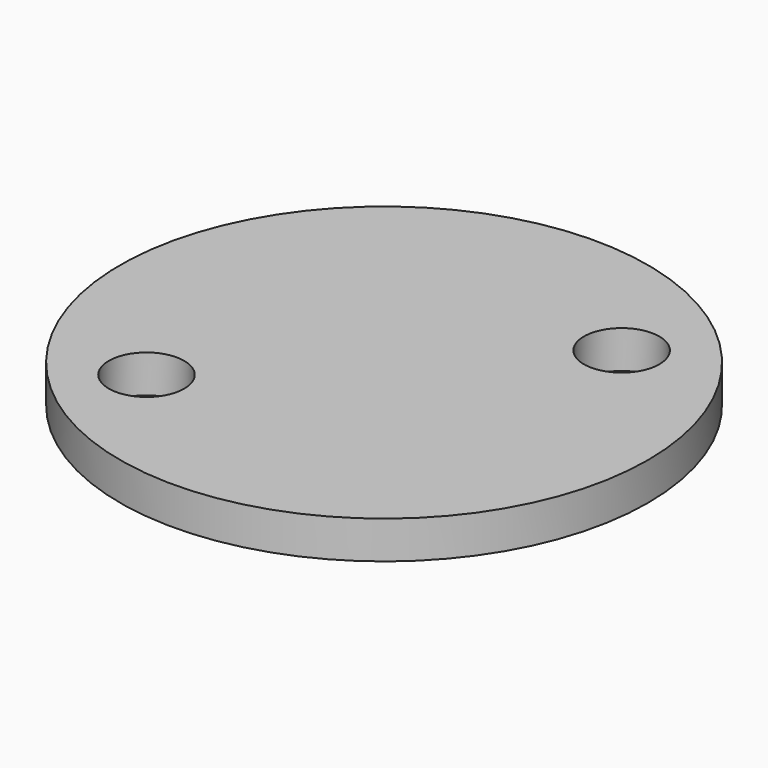
from build123d import *

# Parameters (mm, degrees)
CYLINDER064_R     = 1
CYLINDER064_DEPTH = 20
CYLINDER065_R     = 1
CYLINDER065_DEPTH = 20
CYLINDER066_R     = 7
CYLINDER066_DEPTH = 1


with BuildPart() as obj1:
    # Cylinder064 → Cylinder064 (new body)
    with BuildSketch(Plane(origin=(-3.5, -3.5, 0), x_dir=(1, 0, 0), z_dir=(0, 0, 1))):
        Circle(CYLINDER064_R)
    extrude(amount=CYLINDER064_DEPTH)


with BuildPart() as compound035:
    # Cylinder065 → Cylinder065 (new body)
    with BuildSketch(Plane(origin=(3.5, 3.5, 0), x_dir=(1, 0, 0), z_dir=(0, 0, 1))):
        Circle(CYLINDER065_R)
    extrude(amount=CYLINDER065_DEPTH)

    # Compound035: union obj1
    add(obj1.part)


with BuildPart() as cut035:
    # Cylinder066 → Cylinder066 (new body)
    with BuildSketch(Plane.XY.offset(10)):
        Circle(CYLINDER066_R)
    extrude(amount=CYLINDER066_DEPTH)

    # Cut035: cut Compound035
    add(compound035.part, mode=Mode.SUBTRACT)


solid = cut035.part
